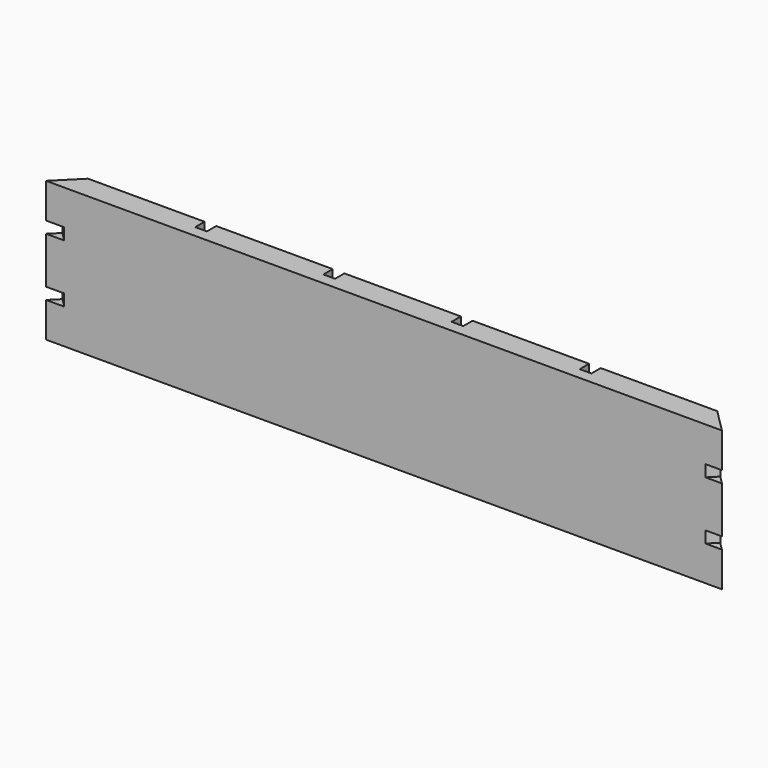
from build123d import *

# Parameters (mm, degrees)
F0_W      = 368.3
F0_H      = 76.2
F1_DEPTH  = 12.7
F2_W      = 6.35
F2_H      = 6.35
F3_DEPTH  = 368.301
F5_DEPTH  = 76.201
F6_W      = 6.35
F6_H      = 63.5
F7_DEPTH  = 6.35
F8_W      = 7.000554
F8_H      = 6.35
F9_DEPTH  = 260.428428
F10_W     = 6.35
F10_H     = 6.35
F11_DEPTH = 260.428428


with BuildPart() as f1:
    # F0 (on Front) → F1 (new body)
    with BuildSketch(Plane.XZ):
        with Locations((0, 38.1)):
            Rectangle(F0_W, F0_H)
    extrude(amount=F1_DEPTH)

    # F2 (on face) → F3 (cut, through all)
    with BuildSketch(Plane.YZ.offset(184.15)):
        with Locations((-3.175, 9.525)):
            Rectangle(F2_W, F2_H)
    extrude(amount=-F3_DEPTH, mode=Mode.SUBTRACT)

    # F4 (on face) → F5 (cut, through all)
    with BuildSketch(Plane.XY.offset(76.2)):
        Polygon((-184.15, 0), (-184.15, -12.7), (-171.45, 0), align=None)
        Polygon((184.15, -12.7), (184.15, 0), (171.45, 0), align=None)
    extrude(amount=-F5_DEPTH, mode=Mode.SUBTRACT)

    # F6 (on face) → F7 (cut)
    with BuildSketch(Plane(origin=(0, 0, 0), x_dir=(-1, 0, 0), z_dir=(0, 1, 0))):
        with Locations((-104.775, 44.45)):
            Rectangle(F6_W, F6_H)
        with Locations((-34.925, 44.45)):
            Rectangle(F6_W, F6_H)
        with Locations((34.925, 44.45)):
            Rectangle(F6_W, F6_H)
        with Locations((104.775, 44.45)):
            Rectangle(F6_W, F6_H)
    extrude(amount=-F7_DEPTH, mode=Mode.SUBTRACT)

    # F8 (on face) → F9 (cut, through all)
    with BuildSketch(Plane(origin=(-85.725, 85.725, 0), x_dir=(-0.707107, -0.707107, 0), z_dir=(-0.707107, 0.707107, 0))):
        with Locations((135.693693, 53.975)):
            Rectangle(F8_W, F8_H)
        with Locations((135.693693, 22.225)):
            Rectangle(F8_W, F8_H)
    extrude(amount=-F9_DEPTH, mode=Mode.SUBTRACT)

    # F10 (on face) → F11 (cut, through all)
    with BuildSketch(Plane(origin=(85.725, 85.725, 0), x_dir=(-0.707107, 0.707107, 0), z_dir=(0.707107, 0.707107, 0))):
        with Locations((-136.01897, 53.975)):
            Rectangle(F10_W, F10_H)
        with Locations((-136.01897, 22.225)):
            Rectangle(F10_W, F10_H)
    extrude(amount=-F11_DEPTH, mode=Mode.SUBTRACT)


solid = f1.part
